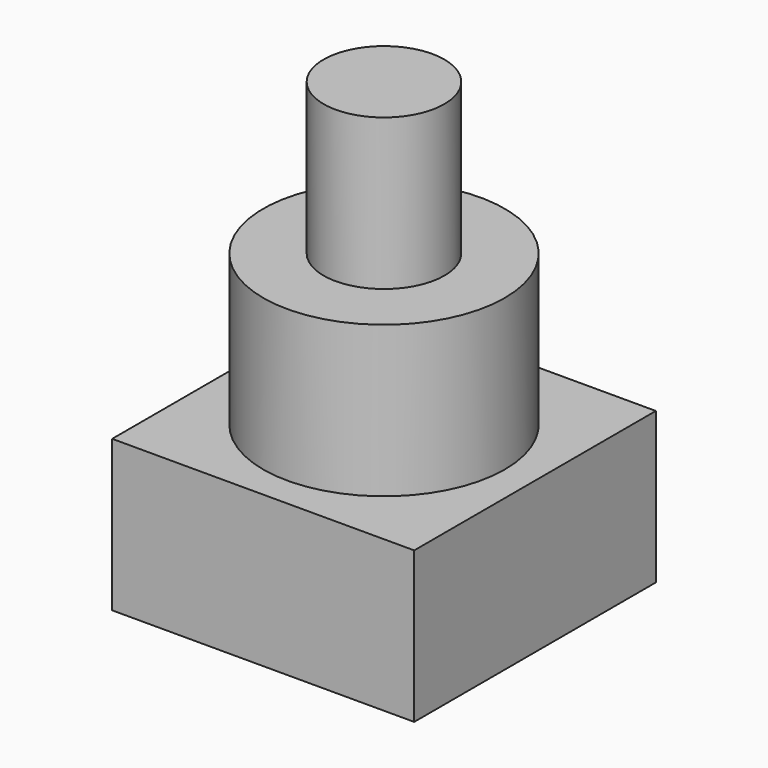
from build123d import *

# Parameters (mm, degrees)
F0_W     = 100
F0_H     = 100
F1_DEPTH = 50
F2_R     = 40
F3_DEPTH = 50
F4_R     = 20
F5_DEPTH = 50


with BuildPart() as f1:
    # F0 (on Top) → F1 (new body)
    with BuildSketch(Plane.XY):
        with Locations((50, 50)):
            Rectangle(F0_W, F0_H)
    extrude(amount=F1_DEPTH)

    # F2 (on face) → F3 (join)
    with BuildSketch(Plane.XY.offset(50)):
        with Locations((50, 50)):
            Circle(F2_R)
    extrude(amount=F3_DEPTH)

    # F4 (on face) → F5 (join)
    with BuildSketch(Plane.XY.offset(100)):
        with Locations((50, 50)):
            Circle(F4_R)
    extrude(amount=F5_DEPTH)


solid = f1.part
